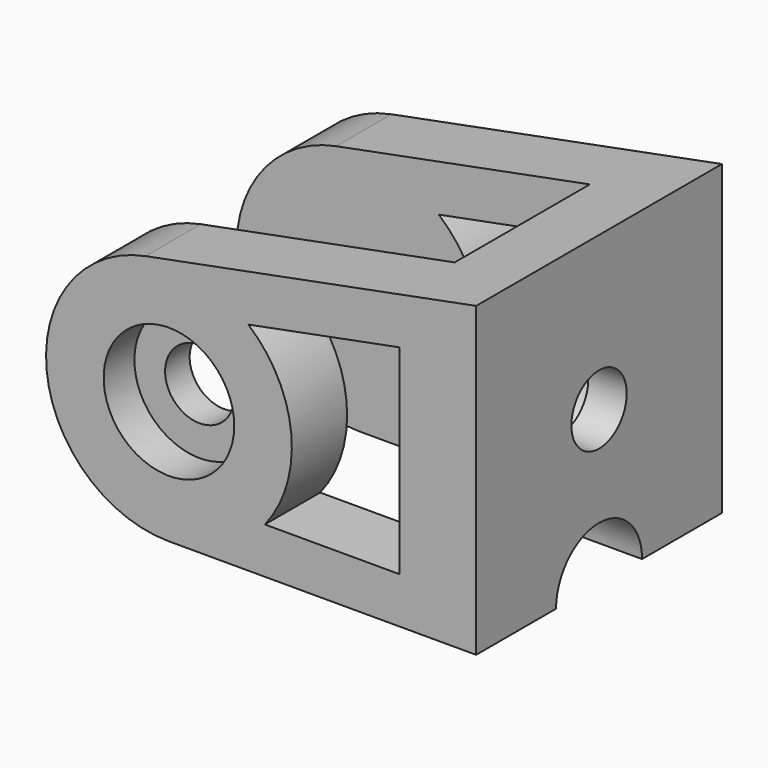
from build123d import *

# Parameters (mm, degrees)
SKETCH024_R       = 2.25
PAD018_DEPTH      = 10
CYLINDER062_R     = 3.5
CYLINDER062_DEPTH = 5
BOX001_W          = 26
BOX001_H          = 11
BOX001_DEPTH      = 20
CYLINDER065_R     = 2.25
CYLINDER065_DEPTH = 5
CYLINDER066_R     = 4.25
CYLINDER066_DEPTH = 2.5
CYLINDER067_R     = 4.25
CYLINDER067_DEPTH = 2.5
POCKET008_DEPTH   = 2.5


with BuildPart() as part:
    # Sketch024 → Pad018 (new body, symmetric)
    with BuildSketch(Plane.XZ):
        with BuildLine():
            ThreePointArc((-1.513336, 7.85556), (-7.963808, -0.760107), (0, -8))
            Line((0, -8), (20, -8))
            Line((20, 12), (20, -8))
            Line((20, 12), (-1.513336, 7.85556))
        make_face()
        Circle(SKETCH024_R, mode=Mode.SUBTRACT)
        with BuildLine():
            Line((5.168757, 6.106058), (15, 8))
            Line((15, 8), (15, -5))
            Line((15, -5), (6.244998, -5))
            ThreePointArc((6.244998, -5), (7.9627, 0.771631), (5.168757, 6.106058))
        make_face(mode=Mode.SUBTRACT)
    extrude(amount=PAD018_DEPTH, both=True)

    # Cylinder062 → Cylinder062 (cut)
    with BuildSketch(Plane(origin=(15, 0, -8), x_dir=(0, 1, 0), z_dir=(1, 0, 0))):
        Circle(CYLINDER062_R)
    extrude(amount=CYLINDER062_DEPTH, mode=Mode.SUBTRACT)

    # Box001 → Box001 (cut)
    with BuildSketch(Plane(origin=(-11, -5.5, -8), x_dir=(1, 0, 0), z_dir=(0, 0, 1))):
        with Locations((13, 5.5)):
            Rectangle(BOX001_W, BOX001_H)
    extrude(amount=BOX001_DEPTH, mode=Mode.SUBTRACT)

    # Cylinder065 → Cylinder065 (cut)
    with BuildSketch(Plane(origin=(15, 0, 2), x_dir=(0, 1, 0), z_dir=(1, 0, 0))):
        Circle(CYLINDER065_R)
    extrude(amount=CYLINDER065_DEPTH, mode=Mode.SUBTRACT)

    # Cylinder066 → Cylinder066 (cut)
    with BuildSketch(Plane(origin=(15, 0, 2), x_dir=(0, 1, 0), z_dir=(1, 0, 0))):
        Circle(CYLINDER066_R)
    extrude(amount=CYLINDER066_DEPTH, mode=Mode.SUBTRACT)

    # Cylinder067 → Cylinder067 (cut)
    with BuildSketch(Plane.XZ.offset(7.5)):
        Circle(CYLINDER067_R)
    extrude(amount=CYLINDER067_DEPTH, mode=Mode.SUBTRACT)

    # Sketch040 (on Face2 of Cylinder067) → Pocket008 (cut)
    with BuildSketch(Plane(origin=(0, 10, 0), x_dir=(1, 0, 0), z_dir=(0, 1, 0))):
        Polygon((4.25, 0), (2.125, 3.680608), (-2.125, 3.680608), (-4.25, 0), (-2.125, -3.680608), (2.125, -3.680608), align=None)
    extrude(amount=-POCKET008_DEPTH, mode=Mode.SUBTRACT)


solid = part.part
